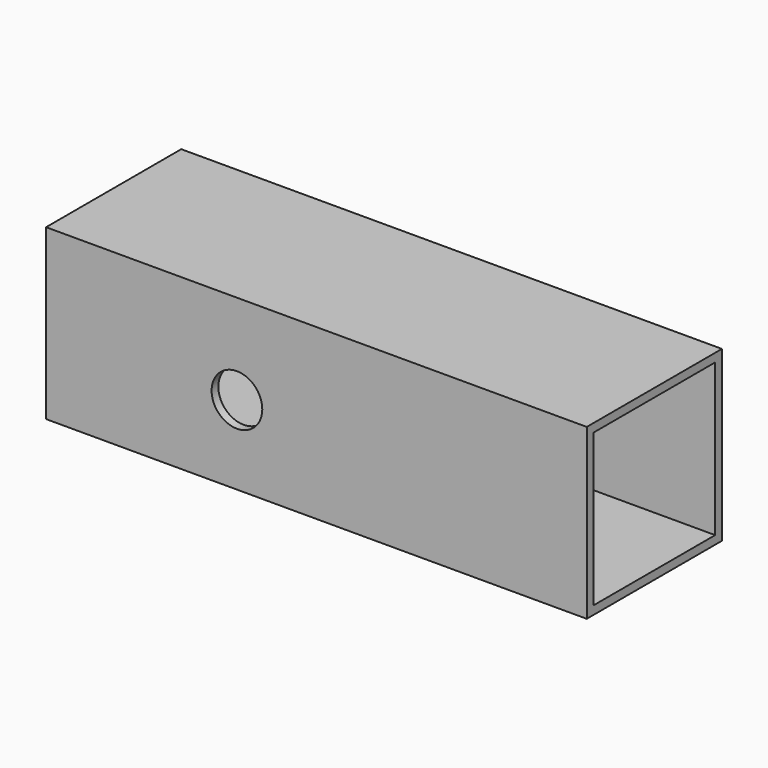
from build123d import *

# Parameters (mm, degrees)
F0_W     = 101.6
F0_H     = 31.75
F1_DEPTH = 31.75
F2_T     = -1.5875
F4_D     = 9.525
F5_ANGLE = 90
F6_ANGLE = 180


with BuildPart() as f1:
    # F0 (on Top) → F1 (new body)
    with BuildSketch(Plane.XY):
        with Locations((-50.8, 15.875)):
            Rectangle(F0_W, F0_H)
    extrude(amount=F1_DEPTH)

    # F2
    f2_openings = [f1.faces().sort_by_distance(p)[0] for p in [
        (-101.6, 15.875, 15.875),
        (0, 15.875, 15.875),
    ]]
    offset(amount=F2_T, openings=f2_openings)

    # F4 (through all)
    with Locations(Plane.XY.offset(31.75)):
        with Locations((-35.8643569052, 16.9158093631)):
            Hole(F4_D / 2)


with BuildPart() as f1_1:
    # F5: moved
    add(f1.part.rotate(Axis((-50.8, 31.75, 31.75), (-1, 0, 0)), F5_ANGLE))


with BuildPart() as f1_2:
    # F6: moved
    add(f1_1.part.rotate(Axis((-101.6, 0, 47.625), (0, 0, -1)), F6_ANGLE))


solid = f1_2.part
